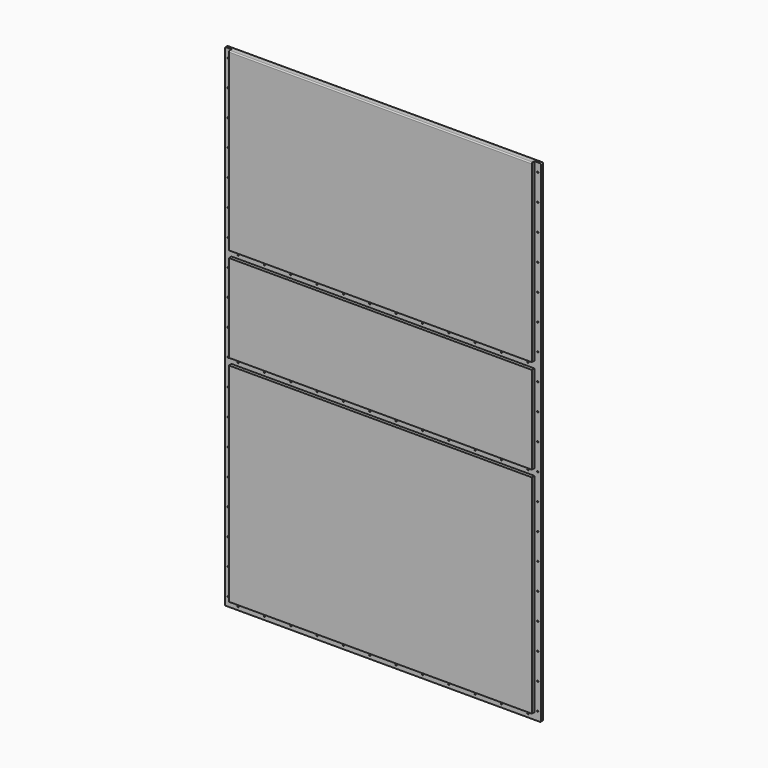
from build123d import *

# Parameters (mm, degrees)
F0_W           = 914.4
F0_H           = 1422.4
F1_DEPTH       = 19.05
F2_W           = 914.4
F2_H           = 19.558
F3_DEPTH       = 9.525
F5_D           = 3.7973
F5_CSINK_D     = 7.7978
F5_CSINK_ANGLE = 82
F6_W           = 19.05
F6_H           = 508
F6_H_2         = 894.842
F7_DEPTH       = 9.525
F9_D           = 3.7973
F9_CSINK_D     = 7.7978
F9_CSINK_ANGLE = 82
F10_R          = 3.175


with BuildPart() as f1:
    # F0 (on Front) → F1 (new body)
    with BuildSketch(Plane.XZ):
        Rectangle(F0_W, F0_H)
    extrude(amount=F1_DEPTH)

    # F2 (on face) → F3 (cut)
    with BuildSketch(Plane.XZ.offset(19.05)):
        with Locations((0, 193.421)):
            Rectangle(F2_W, F2_H)
        with Locations((0, -701.421)):
            Rectangle(F2_W, F2_H)
        with Locations((0, -80.137)):
            Rectangle(F2_W, F2_H)
    extrude(amount=-F3_DEPTH, mode=Mode.SUBTRACT)

    # F5 (through all)
    with Locations(Plane(origin=(0, 0, 0), x_dir=(-1, 0, 0), z_dir=(0, 1, 0))):
        with Locations((-419.1, -701.421), (-342.9, -701.421), (-266.7, -701.421), (-190.5, -701.421), (-114.3, -701.421), (-38.1, -701.421), (38.1, -701.421), (114.3, -701.421), (190.5, -701.421), (266.7, -701.421), (342.9, -701.421), (419.1, -701.421), (342.9, -80.137), (-38.1, -80.137), (38.1, -80.137), (-266.7, -80.137), (-419.1, -80.137), (114.3, -80.137), (419.1, -80.137), (190.5, -80.137), (-114.3, -80.137), (-342.9, -80.137), (266.7, -80.137), (-190.5, -80.137), (266.7, 193.421), (114.3, 193.421), (342.9, 193.421), (-342.9, 193.421), (-38.1, 193.421), (-266.7, 193.421), (419.1, 193.421), (-419.1, 193.421), (38.1, 193.421), (-190.5, 193.421), (190.5, 193.421), (-114.3, 193.421)):
            CounterSinkHole(F5_D / 2, F5_CSINK_D / 2, counter_sink_angle=F5_CSINK_ANGLE)

    # F6 (on face) → F7 (cut)
    with BuildSketch(Plane.XZ.offset(19.05)):
        with Locations((-447.675, 457.2)):
            Rectangle(F6_W, F6_H)
        with Locations((447.675, 457.2)):
            Rectangle(F6_W, F6_H)
        with Locations((447.675, -244.221)):
            Rectangle(F6_W, F6_H_2)
        with Locations((-447.675, -244.221)):
            Rectangle(F6_W, F6_H_2)
    extrude(amount=-F7_DEPTH, mode=Mode.SUBTRACT)

    # F9 (through all)
    with Locations(Plane(origin=(0, 0, 0), x_dir=(-1, 0, 0), z_dir=(0, 1, 0))):
        with Locations((-447.675, 152.4), (-447.675, -76.2), (-447.675, -152.4), (-447.675, 0), (-447.675, -609.6), (-447.675, 381), (-447.675, 457.2), (-447.675, -533.4), (-447.675, 228.6), (-447.675, 685.8), (-447.675, 76.2), (-447.675, 304.8), (-447.675, 533.4), (-447.675, -381), (-447.675, 609.6), (-447.675, -304.8), (-447.675, -457.2), (-447.675, -228.6), (-447.675, -685.8), (447.675, 609.6), (447.675, -152.4), (447.675, 457.2), (447.675, -685.8), (447.675, 228.6), (447.675, 685.8), (447.675, -304.8), (447.675, 0), (447.675, 381), (447.675, 533.4), (447.675, -533.4), (447.675, -381), (447.675, -457.2), (447.675, 304.8), (447.675, 76.2), (447.675, 152.4), (447.675, -228.6), (447.675, -609.6), (447.675, -76.2)):
            CounterSinkHole(F9_D / 2, F9_CSINK_D / 2, counter_sink_angle=F9_CSINK_ANGLE)

    # F10
    f10_edges = [f1.edges().sort_by_distance(p)[0] for p in [
        (457.2, 0, 0),
        (0, 0, 711.2),
        (-457.2, 0, 0),
        (0, 0, -711.2),
        (457.2, -4.7625, -711.2),
        (-457.2, -4.7625, -711.2),
        (-457.2, -4.7625, 711.2),
        (457.2, -4.7625, 711.2),
        (0, -19.05, 711.2),
    ]]
    fillet(f10_edges, radius=F10_R)


solid = f1.part
